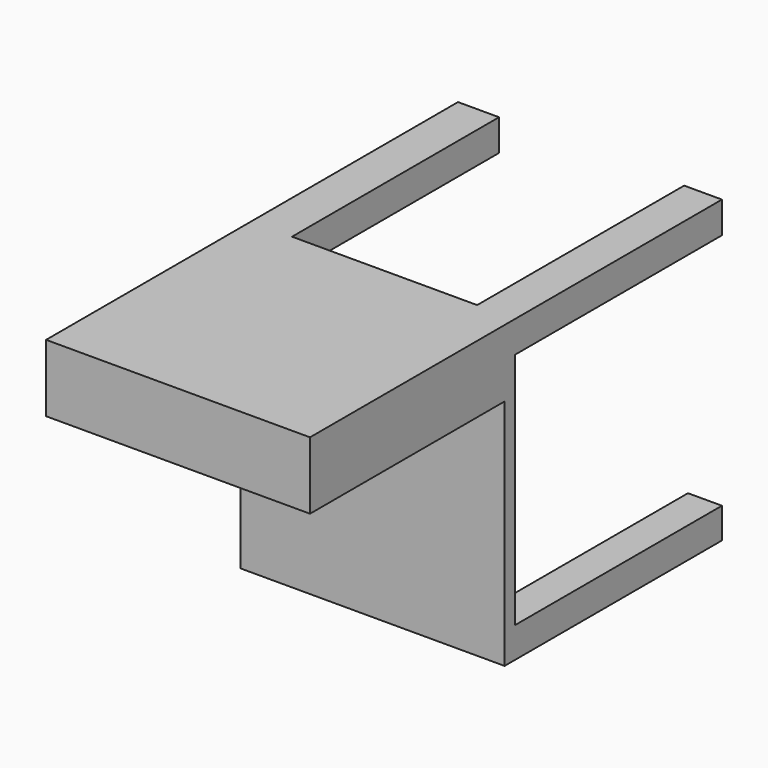
from build123d import *

# Parameters (mm, degrees)
F0_W     = 510
F0_H     = 580
F1_DEPTH = 25
F2_W     = 510
F2_H     = 130
F3_DEPTH = 470
F4_W     = 72.998022
F4_H     = 60.818438
F4_W_2   = 79.273899
F4_W_3   = 65.625256
F4_H_2   = 59.164775
F4_W_4   = 61.082054
F5_DEPTH = 500


with BuildPart() as f1:
    # F0 (on Front) → F1 (new body)
    with BuildSketch(Plane.XZ):
        with Locations((-11.220857, 106.207754)):
            Rectangle(F0_W, F0_H)
    extrude(amount=F1_DEPTH)

    # F2 (on face) → F3 (join)
    with BuildSketch(Plane.XZ.offset(25)):
        with Locations((-11.220857, 331.207754)):
            Rectangle(F2_W, F2_H)
    extrude(amount=F3_DEPTH)

    # F4 (on face) → F5 (join)
    with BuildSketch(Plane(origin=(0, 0, 0), x_dir=(-1, 0, 0), z_dir=(0, 1, 0))):
        with Locations((-207.280132, 365.798535)):
            Rectangle(F4_W, F4_H)
        with Locations((226.583907, 365.798535)):
            Rectangle(F4_W_2, F4_H)
        with Locations((-210.966515, -154.209858)):
            Rectangle(F4_W_3, F4_H_2)
        with Locations((235.67983, -154.209858)):
            Rectangle(F4_W_4, F4_H_2)
    extrude(amount=F5_DEPTH)


solid = f1.part
